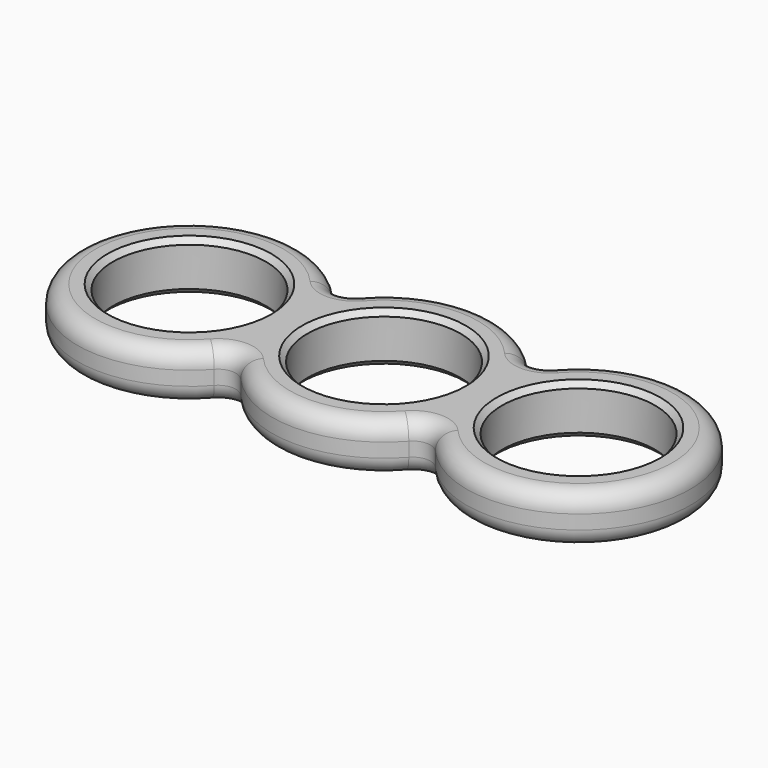
from build123d import *

# Parameters (mm, degrees)
F0_R     = 11
F1_DEPTH = 7.112
F2_R     = 2.54
F3_SIZE  = 0.762


with BuildPart() as f1:
    # F0 (on Top) → F1 (new body)
    with BuildSketch(Plane.XY):
        with BuildLine():
            ThreePointArc((-15.875682, -10.631022), (-13.97, -9.770301), (-12.064318, -10.631022))
            ThreePointArc((-12.064318, -10.631022), (0, -16.08), (12.064318, -10.631022))
            ThreePointArc((12.064318, -10.631022), (13.97, -9.770301), (15.875682, -10.631022))
            ThreePointArc((15.875682, -10.631022), (44.02, 0), (15.875682, 10.631022))
            ThreePointArc((15.875682, 10.631022), (13.97, 9.770301), (12.064318, 10.631022))
            ThreePointArc((12.064318, 10.631022), (0, 16.08), (-12.064318, 10.631022))
            ThreePointArc((-12.064318, 10.631022), (-13.97, 9.770301), (-15.875682, 10.631022))
            ThreePointArc((-15.875682, 10.631022), (-44.02, 0), (-15.875682, -10.631022))
        make_face()
        with Locations((-27.94, 0)):
            Circle(F0_R, mode=Mode.SUBTRACT)
        Circle(F0_R, mode=Mode.SUBTRACT)
        with Locations((27.94, 0)):
            Circle(F0_R, mode=Mode.SUBTRACT)
    extrude(amount=F1_DEPTH)

    # F2
    f2_edges = [f1.edges().sort_by_distance(p)[0] for p in [
        (44.02, 0, 0),
        (-44.02, 0, 7.112),
    ]]
    fillet(f2_edges, radius=F2_R)

    # F3
    f3_edges = [f1.edges().sort_by_distance(p)[0] for p in [
        (-16.94, 0, 3.556),
        (-38.94, 0, 0),
        (-38.94, 0, 7.112),
        (11, 0, 3.556),
        (-11, 0, 0),
        (-11, 0, 7.112),
        (38.94, 0, 3.556),
        (16.94, 0, 0),
        (16.94, 0, 7.112),
    ]]
    chamfer(f3_edges, length=F3_SIZE)


solid = f1.part
